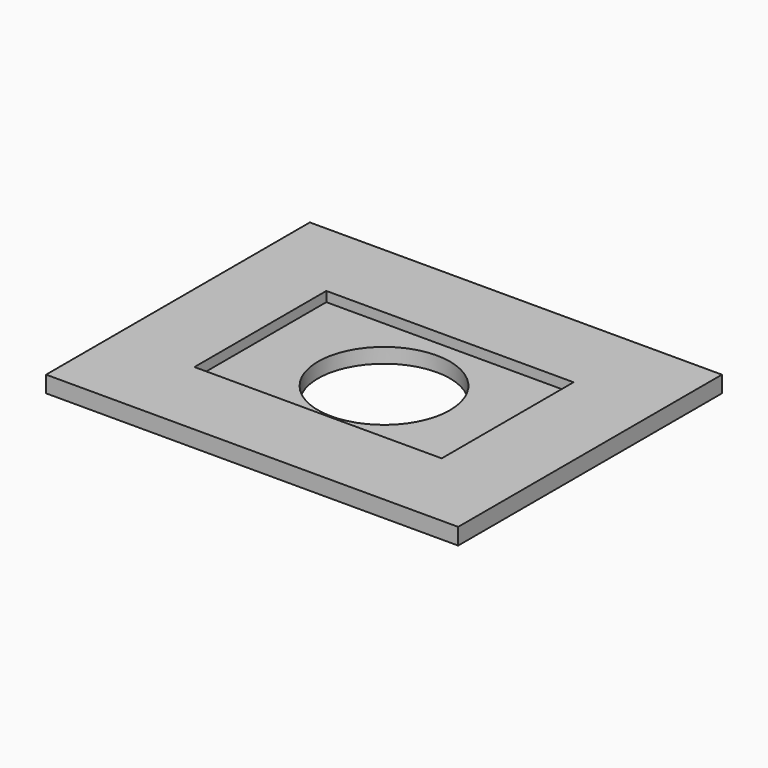
from build123d import *

# Parameters (mm, degrees)
F0_W     = 25
F0_H     = 20
F0_R     = 4
F1_DEPTH = 1
F2_W     = 15
F2_H     = 10
F3_DEPTH = 0.6
F4_W     = 14.7
F4_H     = 9.7
F4_R     = 4
F5_DEPTH = 0.5


with BuildPart() as f1:
    # F0 (on Top) → F1 (new body)
    with BuildSketch(Plane.XY):
        Rectangle(F0_W, F0_H)
        Circle(F0_R, mode=Mode.SUBTRACT)
    extrude(amount=F1_DEPTH)

    # F2 (on face) → F3 (cut)
    with BuildSketch(Plane.XY.offset(1)):
        Rectangle(F2_W, F2_H)
    extrude(amount=-F3_DEPTH, mode=Mode.SUBTRACT)

    # F4 (on face) → F5 (join)
    with BuildSketch(Plane(origin=(0, 0, 0), x_dir=(1, 0, 0), z_dir=(0, 0, -1))):
        Rectangle(F4_W, F4_H)
        Circle(F4_R, mode=Mode.SUBTRACT)
    extrude(amount=F5_DEPTH)


solid = f1.part
